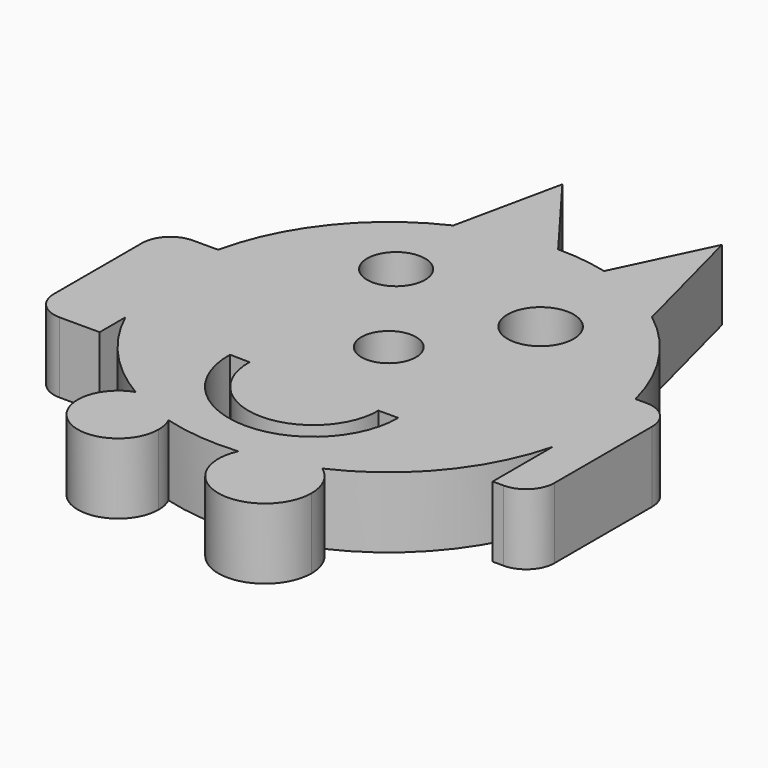
from build123d import *

# Parameters (mm, degrees)
F0_R     = 1.9348900532
F0_R_2   = 2.0522604458
F0_R_3   = 2.3419360145
F1_DEPTH = 5


with BuildPart() as f1:
    # F0 (on Top) → F1 (new body)
    with BuildSketch(Plane.XY):
        with BuildLine():
            Line((14.5436545132, -3.6717997494), (14.5436545132, 3.6717997494))
            ThreePointArc((14.5436545132, 3.6717997494), (12.5272279605, 8.2503672419), (9.117258298, 11.9111544834))
            ThreePointArc((9.117258298, 11.9111544834), (6.4998434958, 13.5185810842), (3.6098778188, 14.5591477132))
            ThreePointArc((3.6098778188, 14.5591477132), (1.818348743, 14.8893790283), (0, 15))
            ThreePointArc((0, 15), (-3.2325615836, 14.6475440129), (-6.3132117426, 13.6067394145))
            ThreePointArc((-6.3132117426, 13.6067394145), (-11.7007085883, 9.3858094234), (-14.6523065602, 3.2109052408))
            Line((-14.6523065602, 3.2109052408), (-13.6017017066, 3.2109052408))
            Line((-13.6017017066, 3.2109052408), (-13.6017017066, -6.3240580867))
            ThreePointArc((-13.6017017066, -6.3240580867), (-11.0937814491, -10.0959404297), (-7.5742680527, -12.9472183679))
            ThreePointArc((-7.5742680527, -12.9472183679), (-5.5179001004, -13.0164836252), (-4.0382475823, -14.4461952245))
            ThreePointArc((-4.0382475823, -14.4461952245), (-1.3916396268, -14.9353051241), (1.2997714686, -14.9435803651))
            ThreePointArc((1.2997714686, -14.9435803651), (3.4559828028, -13.1380275344), (6.2215345161, -13.6489013574))
            ThreePointArc((6.2215345161, -13.6489013574), (11.5188501154, -9.6081263532), (14.5436545132, -3.6717997494))
        make_face()
        with BuildLine():
            ThreePointArc((5.7079247199, -6.2883910723), (-0.3391810804, -12.3095638451), (-6.2883906066, -6.1916462146))
            Line((-6.2883906066, -6.1916462146), (-4.8886678044, -6.2194979452))
            ThreePointArc((-4.8886678044, -6.2194979452), (-0.3278910818, -10.9096094966), (4.3079347792, -6.2936643859))
            Line((4.3079347792, -6.2936643859), (5.7079247199, -6.2883910723))
        make_face(mode=Mode.SUBTRACT)
        Circle(F0_R, mode=Mode.SUBTRACT)
        with Locations((-5.5144345388, 7.5460691005)):
            Circle(F0_R_2, mode=Mode.SUBTRACT)
        with Locations((5.0307135098, 7.1590915322)):
            Circle(F0_R_3, mode=Mode.SUBTRACT)
        with BuildLine():
            ThreePointArc((1.2997714686, -14.9435803651), (3.8159611322, -14.5064964977), (6.2215345161, -13.6489013574))
            ThreePointArc((6.2215345161, -13.6489013574), (3.4559828028, -13.1380275344), (1.2997714686, -14.9435803651))
        make_face()
        with BuildLine():
            ThreePointArc((7.5981171759, -16.3314789534), (7.2338832803, -14.8238979126), (6.2215345161, -13.6489013574))
            ThreePointArc((6.2215345161, -13.6489013574), (3.8159611322, -14.5064964977), (1.2997714686, -14.9435803651))
            ThreePointArc((1.2997714686, -14.9435803651), (3.5854281507, -19.5562045673), (7.5981171759, -16.3314789534))
        make_face()
        with BuildLine():
            ThreePointArc((-3.7710910204, -15.6542677432), (-3.8386773507, -15.0356378379), (-4.0382475823, -14.4461952245))
            ThreePointArc((-4.0382475823, -14.4461952245), (-5.8544310354, -13.8103452981), (-7.5742680527, -12.9472183679))
            ThreePointArc((-7.5742680527, -12.9472183679), (-8.297487219, -17.9883774161), (-3.7710910204, -15.6542677432))
        make_face()
        with BuildLine():
            ThreePointArc((-7.5742680527, -12.9472183679), (-5.8544310354, -13.8103452981), (-4.0382475823, -14.4461952245))
            ThreePointArc((-4.0382475823, -14.4461952245), (-5.5179001004, -13.0164836252), (-7.5742680527, -12.9472183679))
        make_face()
        with BuildLine():
            ThreePointArc((14.5436545132, 3.6717997494), (14.8854764401, 1.8500246352), (15, 0))
            ThreePointArc((15, 0), (14.8854764401, -1.8500246352), (14.5436545132, -3.6717997494))
            Line((14.5436545132, -3.6717997494), (14.5436545132, -8.978898637))
            Line((14.5436545132, -8.978898637), (15.3239746839, -8.978898637))
            ThreePointArc((15.3239746839, -8.978898637), (16.7381882463, -8.3931121994), (17.3239746839, -6.978898637))
            Line((17.3239746839, -6.978898637), (17.3239746839, 1.6717997494))
            ThreePointArc((17.3239746839, 1.6717997494), (16.7381882463, 3.0860133118), (15.3239746839, 3.6717997494))
            Line((15.3239746839, 3.6717997494), (14.5436545132, 3.6717997494))
        make_face()
        with BuildLine():
            ThreePointArc((14.5436545132, -3.6717997494), (14.8854764401, -1.8500246352), (15, 0))
            ThreePointArc((15, 0), (14.8854764401, 1.8500246352), (14.5436545132, 3.6717997494))
            Line((14.5436545132, 3.6717997494), (14.5436545132, -3.6717997494))
        make_face()
        with BuildLine():
            ThreePointArc((-13.6017017066, -6.3240580867), (-14.9097661685, -1.6428246406), (-14.6523065602, 3.2109052408))
            Line((-14.6523065602, 3.2109052408), (-16.4389259666, 3.2109052408))
            ThreePointArc((-16.4389259666, 3.2109052408), (-17.853139529, 2.6251188032), (-18.4389259666, 1.2109052408))
            Line((-18.4389259666, 1.2109052408), (-18.4389259666, -6.5919210687))
            ThreePointArc((-18.4389259666, -6.5919210687), (-17.853139529, -8.0061346311), (-16.4389259666, -8.5919210687))
            Line((-16.4389259666, -8.5919210687), (-13.6017017066, -8.5919210687))
            Line((-13.6017017066, -8.5919210687), (-13.6017017066, -6.3240580867))
        make_face()
        with BuildLine():
            Line((-13.6017017066, 3.2109052408), (-14.6523065602, 3.2109052408))
            ThreePointArc((-14.6523065602, 3.2109052408), (-14.9097661685, -1.6428246406), (-13.6017017066, -6.3240580867))
            Line((-13.6017017066, -6.3240580867), (-13.6017017066, 3.2109052408))
        make_face()
        with BuildLine():
            ThreePointArc((-6.3132117426, 13.6067394145), (-3.2325615836, 14.6475440129), (0, 15))
            Line((0, 15), (-4.6849409118, 21.2286375463))
            Line((-4.6849409118, 21.2286375463), (-6.3132117426, 13.6067394145))
        make_face()
        with BuildLine():
            ThreePointArc((3.6098778188, 14.5591477132), (6.4998434958, 13.5185810842), (9.117258298, 11.9111544834))
            Line((9.117258298, 11.9111544834), (6.734602619, 21.0822317749))
            Line((6.734602619, 21.0822317749), (3.6098778188, 14.5591477132))
        make_face()
    extrude(amount=F1_DEPTH)


solid = f1.part
